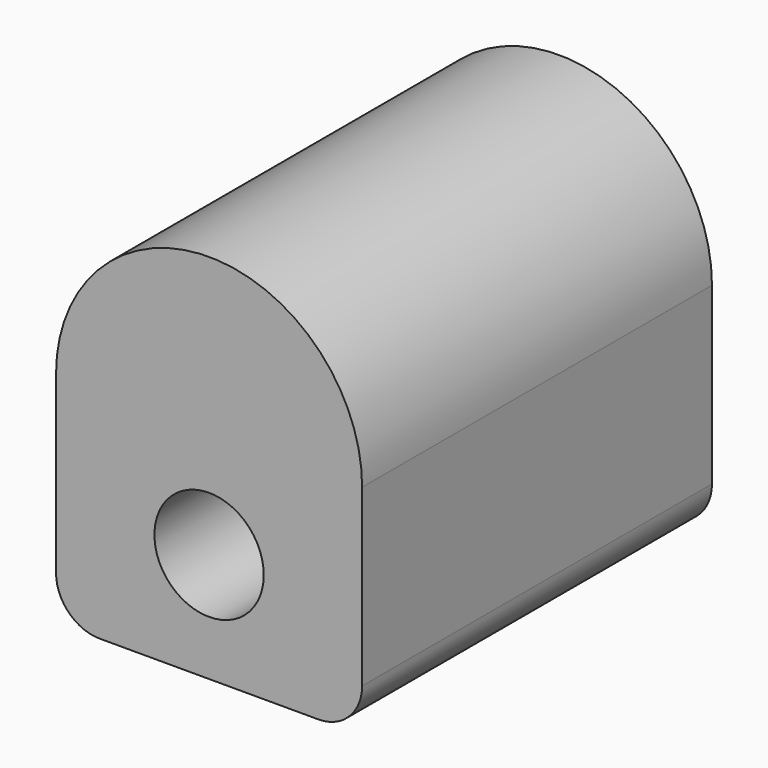
from build123d import *

# Parameters (mm, degrees)
F0_R     = 15.875
F1_DEPTH = 127


with BuildPart() as f1:
    # F0 (on Front) → F1 (new body)
    with BuildSketch(Plane.XZ):
        with BuildLine():
            Line((276.510964, -122.785525), (187.610964, -122.785525))
            Line((187.610964, -122.785525), (187.610964, -173.585525))
            ThreePointArc((187.610964, -173.585525), (191.330708, -182.565781), (200.310964, -186.285525))
            Line((200.310964, -186.285525), (263.810964, -186.285525))
            ThreePointArc((263.810964, -186.285525), (272.79122, -182.565781), (276.510964, -173.585525))
            Line((276.510964, -173.585525), (276.510964, -122.785525))
        make_face()
        with Locations((232.060964, -154.535525)):
            Circle(F0_R, mode=Mode.SUBTRACT)
        with BuildLine():
            ThreePointArc((276.510964, -122.785525), (232.060964, -78.335525), (187.610964, -122.785525))
            Line((187.610964, -122.785525), (276.510964, -122.785525))
        make_face()
    extrude(amount=F1_DEPTH)


solid = f1.part
